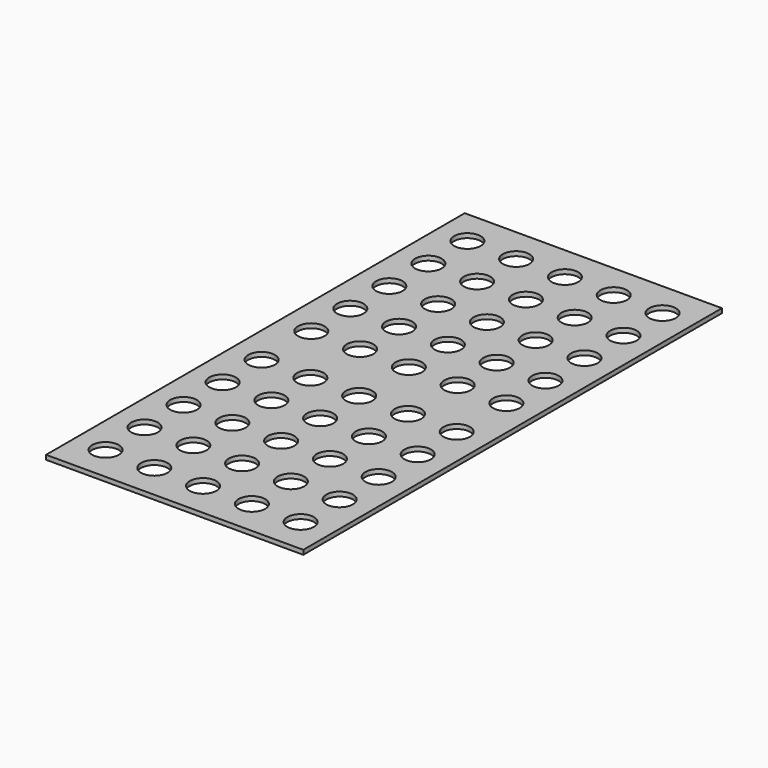
from build123d import *

# Parameters (mm, degrees)
F0_W     = 368.3
F0_H     = 749.3
F0_R     = 19.05
F1_DEPTH = 6.35


with BuildPart() as f1:
    # F0 (on Top) → F1 (new body)
    with BuildSketch(Plane.XY):
        Rectangle(F0_W, F0_H)
        with Locations((-139.7, -323.85)):
            Circle(F0_R, mode=Mode.SUBTRACT)
        with Locations((-139.7, -254)):
            Circle(F0_R, mode=Mode.SUBTRACT)
        with Locations((-69.85, -323.85)):
            Circle(F0_R, mode=Mode.SUBTRACT)
        with Locations((-69.85, -254)):
            Circle(F0_R, mode=Mode.SUBTRACT)
        with Locations((-139.7, -184.15)):
            Circle(F0_R, mode=Mode.SUBTRACT)
        with Locations((-139.7, -114.3)):
            Circle(F0_R, mode=Mode.SUBTRACT)
        with Locations((-139.7, -44.45)):
            Circle(F0_R, mode=Mode.SUBTRACT)
        with Locations((-69.85, -184.15)):
            Circle(F0_R, mode=Mode.SUBTRACT)
        with Locations((-69.85, -114.3)):
            Circle(F0_R, mode=Mode.SUBTRACT)
        with Locations((-69.85, -44.45)):
            Circle(F0_R, mode=Mode.SUBTRACT)
        with Locations((0, -323.85)):
            Circle(F0_R, mode=Mode.SUBTRACT)
        with Locations((69.85, -323.85)):
            Circle(F0_R, mode=Mode.SUBTRACT)
        with Locations((0, -254)):
            Circle(F0_R, mode=Mode.SUBTRACT)
        with Locations((69.85, -254)):
            Circle(F0_R, mode=Mode.SUBTRACT)
        with Locations((139.7, -323.85)):
            Circle(F0_R, mode=Mode.SUBTRACT)
        with Locations((139.7, -254)):
            Circle(F0_R, mode=Mode.SUBTRACT)
        with Locations((0, -184.15)):
            Circle(F0_R, mode=Mode.SUBTRACT)
        with Locations((0, -114.3)):
            Circle(F0_R, mode=Mode.SUBTRACT)
        with Locations((69.85, -184.15)):
            Circle(F0_R, mode=Mode.SUBTRACT)
        with Locations((69.85, -114.3)):
            Circle(F0_R, mode=Mode.SUBTRACT)
        with Locations((0, -44.45)):
            Circle(F0_R, mode=Mode.SUBTRACT)
        with Locations((69.85, -44.45)):
            Circle(F0_R, mode=Mode.SUBTRACT)
        with Locations((139.7, -184.15)):
            Circle(F0_R, mode=Mode.SUBTRACT)
        with Locations((139.7, -114.3)):
            Circle(F0_R, mode=Mode.SUBTRACT)
        with Locations((139.7, -44.45)):
            Circle(F0_R, mode=Mode.SUBTRACT)
        with Locations((-139.7, 44.45)):
            Circle(F0_R, mode=Mode.SUBTRACT)
        with Locations((-139.7, 114.3)):
            Circle(F0_R, mode=Mode.SUBTRACT)
        with Locations((-139.7, 184.15)):
            Circle(F0_R, mode=Mode.SUBTRACT)
        with Locations((-69.85, 44.45)):
            Circle(F0_R, mode=Mode.SUBTRACT)
        with Locations((-69.85, 114.3)):
            Circle(F0_R, mode=Mode.SUBTRACT)
        with Locations((-69.85, 184.15)):
            Circle(F0_R, mode=Mode.SUBTRACT)
        with Locations((-139.7, 254)):
            Circle(F0_R, mode=Mode.SUBTRACT)
        with Locations((-139.7, 323.85)):
            Circle(F0_R, mode=Mode.SUBTRACT)
        with Locations((-69.85, 254)):
            Circle(F0_R, mode=Mode.SUBTRACT)
        with Locations((-69.85, 323.85)):
            Circle(F0_R, mode=Mode.SUBTRACT)
        with Locations((0, 44.45)):
            Circle(F0_R, mode=Mode.SUBTRACT)
        with Locations((69.85, 44.45)):
            Circle(F0_R, mode=Mode.SUBTRACT)
        with Locations((0, 114.3)):
            Circle(F0_R, mode=Mode.SUBTRACT)
        with Locations((0, 184.15)):
            Circle(F0_R, mode=Mode.SUBTRACT)
        with Locations((69.85, 114.3)):
            Circle(F0_R, mode=Mode.SUBTRACT)
        with Locations((69.85, 184.15)):
            Circle(F0_R, mode=Mode.SUBTRACT)
        with Locations((139.7, 44.45)):
            Circle(F0_R, mode=Mode.SUBTRACT)
        with Locations((139.7, 114.3)):
            Circle(F0_R, mode=Mode.SUBTRACT)
        with Locations((139.7, 184.15)):
            Circle(F0_R, mode=Mode.SUBTRACT)
        with Locations((0, 254)):
            Circle(F0_R, mode=Mode.SUBTRACT)
        with Locations((69.85, 254)):
            Circle(F0_R, mode=Mode.SUBTRACT)
        with Locations((0, 323.85)):
            Circle(F0_R, mode=Mode.SUBTRACT)
        with Locations((69.85, 323.85)):
            Circle(F0_R, mode=Mode.SUBTRACT)
        with Locations((139.7, 254)):
            Circle(F0_R, mode=Mode.SUBTRACT)
        with Locations((139.7, 323.85)):
            Circle(F0_R, mode=Mode.SUBTRACT)
    extrude(amount=F1_DEPTH)


solid = f1.part
